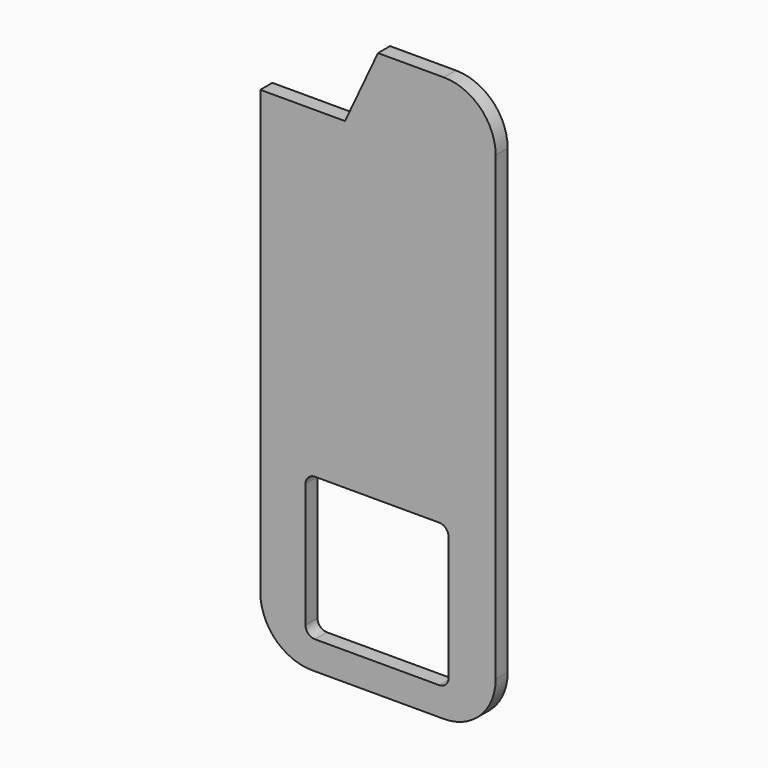
from build123d import *

# Parameters (mm, degrees)
F1_DEPTH = 16


with BuildPart() as f1:
    # F0 (on Front) → F1 (new body)
    with BuildSketch(Plane.XZ):
        with BuildLine():
            ThreePointArc((0, 55), (16.109127, 16.109127), (55, 0))
            Line((55, 0), (195, 0))
            ThreePointArc((195, 0), (233.890873, 16.109127), (250, 55))
            Line((250, 55), (250, 545))
            ThreePointArc((250, 545), (233.890873, 583.890873), (195, 600))
            Line((195, 600), (125, 600))
            Line((125, 600), (90, 525))
            Line((90, 525), (0, 525))
            Line((0, 525), (0, 55))
        make_face()
        with BuildLine():
            ThreePointArc((48, 172), (50.928932, 179.071068), (58, 182))
            Line((58, 182), (190, 182))
            ThreePointArc((190, 182), (197.071068, 179.071068), (200, 172))
            Line((200, 172), (200, 40))
            ThreePointArc((200, 40), (197.071068, 32.928932), (190, 30))
            Line((190, 30), (58, 30))
            ThreePointArc((58, 30), (50.928932, 32.928932), (48, 40))
            Line((48, 40), (48, 172))
        make_face(mode=Mode.SUBTRACT)
    extrude(amount=F1_DEPTH)


solid = f1.part
